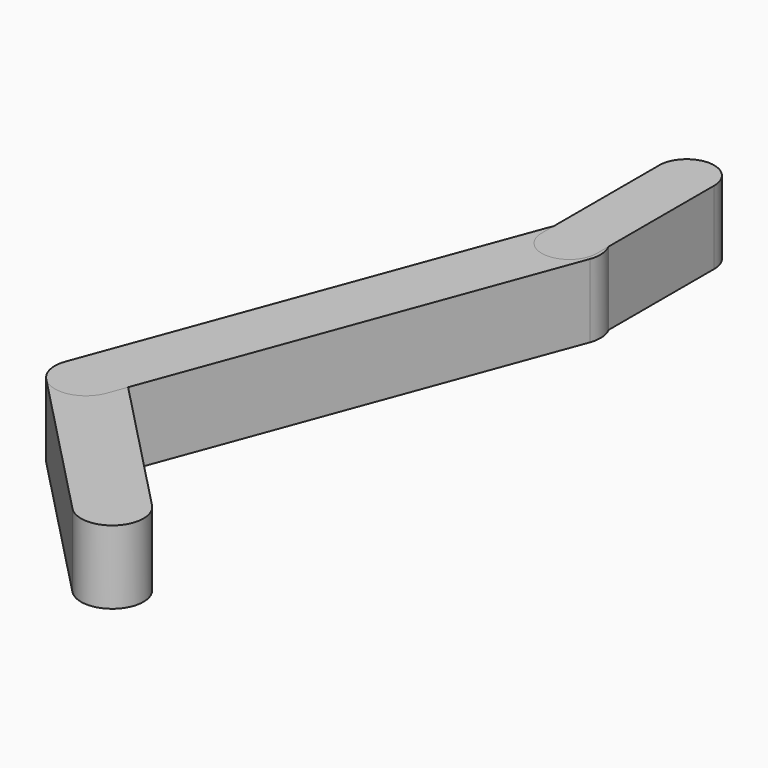
from build123d import *

# Parameters (mm, degrees)
PAD_DEPTH    = 10
PAD001_DEPTH = 10
PAD002_DEPTH = 10


with BuildPart() as cam:
    # Sketch001 → Pad (new body)
    with BuildSketch(Plane.XY):
        with BuildLine():
            ThreePointArc((-17.782557, 24.532492), (-23.792049, 24.637388), (-23.896945, 18.627896))
            Line((-23.896945, 18.627896), (-3.057194, -2.952298))
            ThreePointArc((-3.057194, -2.952298), (2.952298, -3.057194), (3.057194, 2.952298))
            Line((-17.782557, 24.532492), (3.057194, 2.952298))
        make_face()
    extrude(amount=PAD_DEPTH)


with BuildPart() as rod:
    # Sketch002 → Pad001 (new body)
    with BuildSketch(Plane.XY):
        with BuildLine():
            ThreePointArc((-24.82516, 23.056343), (-22.3159, 17.594785), (-16.854342, 20.104045))
            Line((-16.854342, 20.104045), (3.985409, 76.368641))
            ThreePointArc((3.985409, 76.368641), (1.476149, 81.830199), (-3.985409, 79.320939))
            Line((-24.82516, 23.056343), (-3.985409, 79.320939))
        make_face()
    extrude(amount=PAD001_DEPTH)


with BuildPart() as link:
    # Sketch003 → Pad002 (new body)
    with BuildSketch(Plane.XY):
        with BuildLine():
            ThreePointArc((-3.75, 77.84479), (0, 74.09479), (3.75, 77.84479))
            Line((3.75, 77.84479), (3.75, 97.84479))
            ThreePointArc((3.75, 97.84479), (0, 101.59479), (-3.75, 97.84479))
            Line((-3.75, 77.84479), (-3.75, 97.84479))
        make_face()
    extrude(amount=PAD002_DEPTH)


solid = Compound([cam.part, rod.part, link.part])
